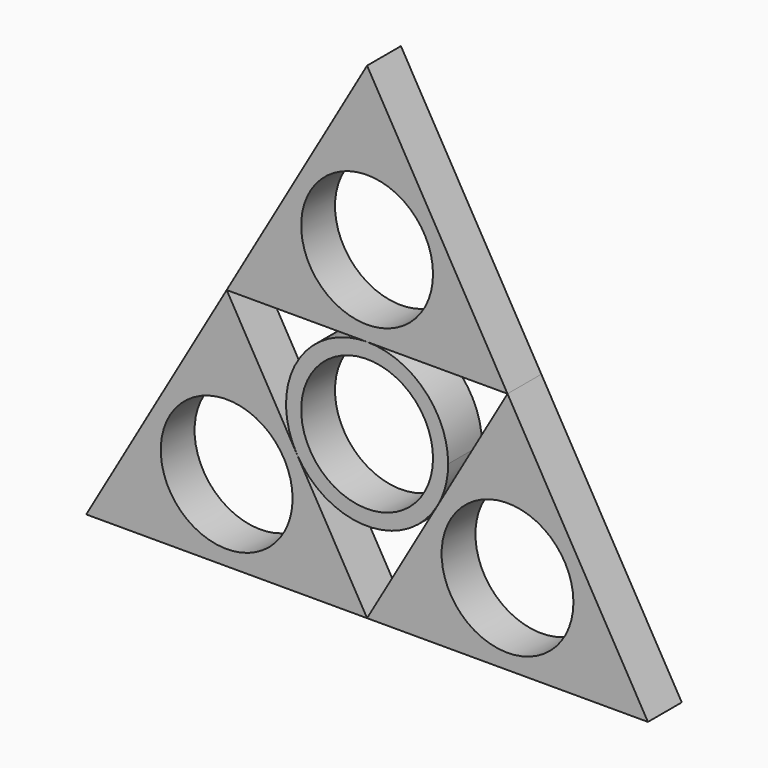
from build123d import *

# Parameters (mm, degrees)
F0_R     = 11
F1_DEPTH = 7.054


with BuildPart() as f1:
    # F0 (on Front) → F1 (new body)
    with BuildSketch(Plane.XZ):
        Polygon((0.275328, 63.311441), (-23.160463, 22.719459), (0.275328, 22.719459), (23.71112, 22.719459), align=None)
        with Locations((0.275328, 36.250119)):
            Circle(F0_R, mode=Mode.SUBTRACT)
        Polygon((-11.442567, 2.423468), (-23.160463, 22.719459), (-46.596255, -17.872524), (-23.160463, -17.872524), (0.275328, -17.872524), align=None)
        with Locations((-23.160463, -4.341863)):
            Circle(F0_R, mode=Mode.SUBTRACT)
        with BuildLine():
            ThreePointArc((0.275328, 22.719459), (-11.442567, 15.954128), (-11.442567, 2.423468))
            ThreePointArc((-11.442567, 2.423468), (0.275328, -4.341863), (11.993224, 2.423467))
            ThreePointArc((11.993224, 2.423467), (13.344943, 5.686805), (13.805989, 9.188798))
            ThreePointArc((13.805989, 9.188798), (9.84295, 18.75642), (0.275328, 22.719459))
        make_face()
        with Locations((0.275328, 9.188798)):
            Circle(F0_R, mode=Mode.SUBTRACT)
        Polygon((11.993224, 2.423467), (0.275328, -17.872524), (47.146912, -17.872524), (23.71112, 22.719459), align=None)
        with Locations((23.71112, -4.341863)):
            Circle(F0_R, mode=Mode.SUBTRACT)
    extrude(amount=F1_DEPTH)


solid = f1.part
